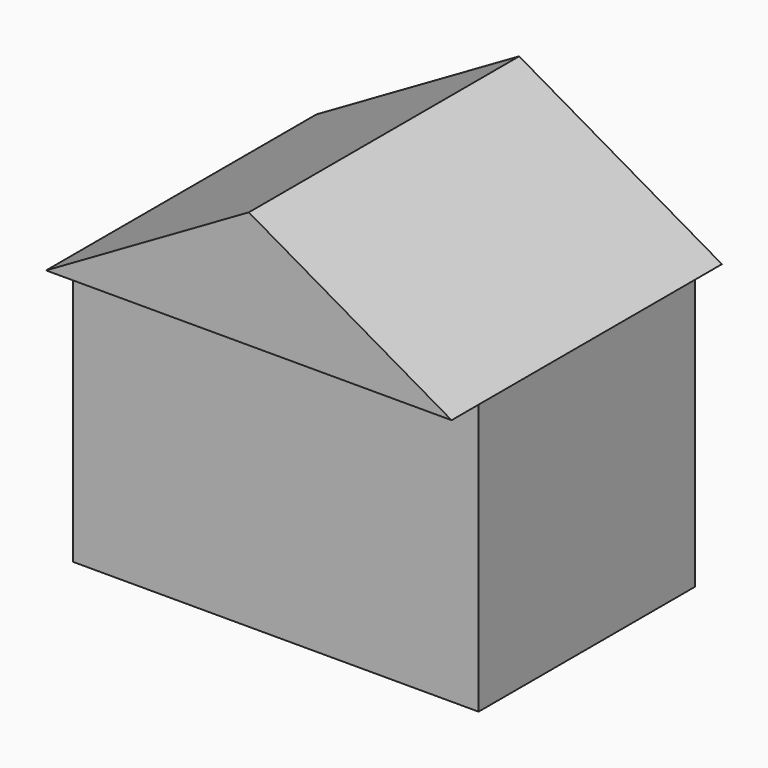
from build123d import *

# Parameters (mm, degrees)
F0_W     = 76.2
F0_H     = 50.8
F1_DEPTH = 25.4
F2_DEPTH = 31.75


with BuildPart() as f1:
    # F0 (on Front) → F1 (new body, symmetric)
    with BuildSketch(Plane.XZ):
        Rectangle(F0_W, F0_H)
    extrude(amount=F1_DEPTH, both=True)

    # F0 (on Front) → F2 (join, symmetric)
    with BuildSketch(Plane.XZ):
        Polygon((0, 47.397045), (-38.1, 25.4), (38.1, 25.4), align=None)
    extrude(amount=F2_DEPTH, both=True)


solid = f1.part
